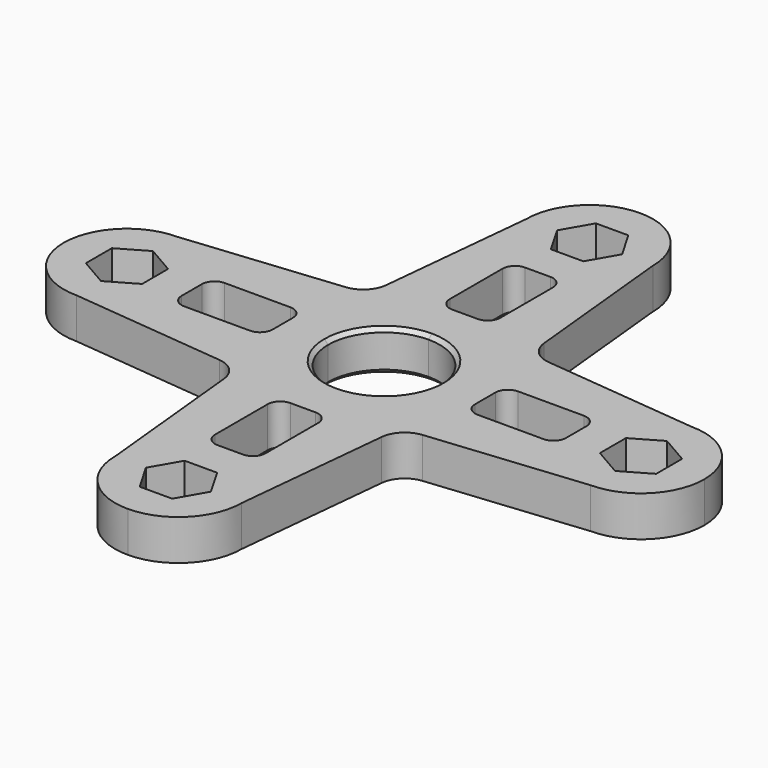
from build123d import *

# Parameters (mm, degrees)
F1_DEPTH = 8
F3_COUNT = 4
F4_R     = 5
F5_SIZE  = 0.762


with BuildPart() as f1:
    # F0 (on Top) → F1 (new body)
    with BuildSketch(Plane.XY):
        with BuildLine():
            ThreePointArc((0, 63.3), (-8.8388347648, 59.6388347648), (-12.5, 50.8))
            Line((-12.5, 50.8), (-6.4172713361, 50.8))
            Line((-6.4172713361, 50.8), (-3.208635668, 56.35752))
            Line((-3.208635668, 56.35752), (0, 56.35752))
            Line((0, 56.35752), (0, 63.3))
        make_face()
        with BuildLine():
            Line((6.4172713361, 50.8), (12.5, 50.8))
            ThreePointArc((12.5, 50.8), (8.8388347648, 59.6388347648), (0, 63.3))
            Line((0, 63.3), (0, 56.35752))
            Line((0, 56.35752), (3.208635668, 56.35752))
            Line((3.208635668, 56.35752), (6.4172713361, 50.8))
        make_face()
        with BuildLine():
            ThreePointArc((0, 38.3), (8.8388347648, 41.9611652352), (12.5, 50.8))
            Line((12.5, 50.8), (6.4172713361, 50.8))
            Line((6.4172713361, 50.8), (3.208635668, 45.24248))
            Line((3.208635668, 45.24248), (0, 45.24248))
            Line((0, 45.24248), (0, 38.3))
        make_face()
        with BuildLine():
            Line((-6.4172713361, 50.8), (-12.5, 50.8))
            ThreePointArc((-12.5, 50.8), (-8.8388347648, 41.9611652352), (0, 38.3))
            Line((0, 38.3), (0, 45.24248))
            Line((0, 45.24248), (-3.208635668, 45.24248))
            Line((-3.208635668, 45.24248), (-6.4172713361, 50.8))
        make_face()
        with BuildLine():
            ThreePointArc((-17.4128947138, 1.7438743322), (-11.7416395615, 12.9762822259), (0, 17.5))
            Line((0, 17.5), (0, 20))
            Line((0, 20), (-2.5, 20))
            ThreePointArc((-2.5, 20), (-4.267766953, 20.732233047), (-5, 22.5))
            Line((-5, 22.5), (-5, 35.5))
            ThreePointArc((-5, 35.5), (-4.267766953, 37.267766953), (-2.5, 38))
            Line((-2.5, 38), (0, 38))
            Line((0, 38), (0, 38.3))
            ThreePointArc((0, 38.3), (-8.8388347648, 41.9611652352), (-12.5, 50.8))
            Line((-12.5, 50.8), (-17.4128947138, 1.7438743322))
        make_face()
        with BuildLine():
            Line((0, 20), (0, 17.5))
            ThreePointArc((0, 17.5), (11.7416395615, 12.9762822259), (17.4128947138, 1.7438743322))
            Line((17.4128947138, 1.7438743322), (12.5, 50.8))
            ThreePointArc((12.5, 50.8), (8.8388347648, 41.9611652352), (0, 38.3))
            Line((0, 38.3), (0, 38))
            Line((0, 38), (2.5, 38))
            ThreePointArc((2.5, 38), (4.267766953, 37.267766953), (5, 35.5))
            Line((5, 35.5), (5, 22.5))
            ThreePointArc((5, 22.5), (4.267766953, 20.732233047), (2.5, 20))
            Line((2.5, 20), (0, 20))
        make_face()
        with BuildLine():
            ThreePointArc((17.4128947138, 1.7438743322), (11.7416395615, 12.9762822259), (0, 17.5))
            ThreePointArc((0, 17.5), (-11.7416395615, 12.9762822259), (-17.4128947138, 1.7438743322))
            ThreePointArc((-17.4128947138, 1.7438743322), (-0.8730242003, -17.4782101128), (17.5, 0))
            ThreePointArc((17.5, 0), (17.4782101128, 0.8730242003), (17.4128947138, 1.7438743322))
        make_face()
        with BuildLine():
            ThreePointArc((0, 11.025), (7.7958522626, 7.7958522626), (11.025, 0))
            ThreePointArc((11.025, 0), (-7.7958522626, -7.7958522626), (0, 11.025))
        make_face(mode=Mode.SUBTRACT)
    extrude(amount=F1_DEPTH)

    # F3: F1 ×4 about axis
    f3_axis = Axis((0, 0, 24.1194125265), (0, 0, 1))


with BuildPart() as f1_1:
    add(f1.part)
    for i in range(1, F3_COUNT):
        add(f1.part.rotate(f3_axis, i * 360 / F3_COUNT))

    # F4
    f4_edges = [f1_1.edges().sort_by_distance(p)[0] for p in [
        (15.986516, 15.986516, 4),
        (-15.986516, 15.986516, 4),
        (-15.986516, -15.986516, 4),
        (15.986516, -15.986516, 4),
    ]]
    fillet(f4_edges, radius=F4_R)

    # F5
    f5_edges = [f1_1.edges().sort_by_distance(p)[0] for p in [
        (0, -11.025, 8),
        (0, -11.025, 0),
    ]]
    chamfer(f5_edges, length=F5_SIZE)


solid = f1_1.part
